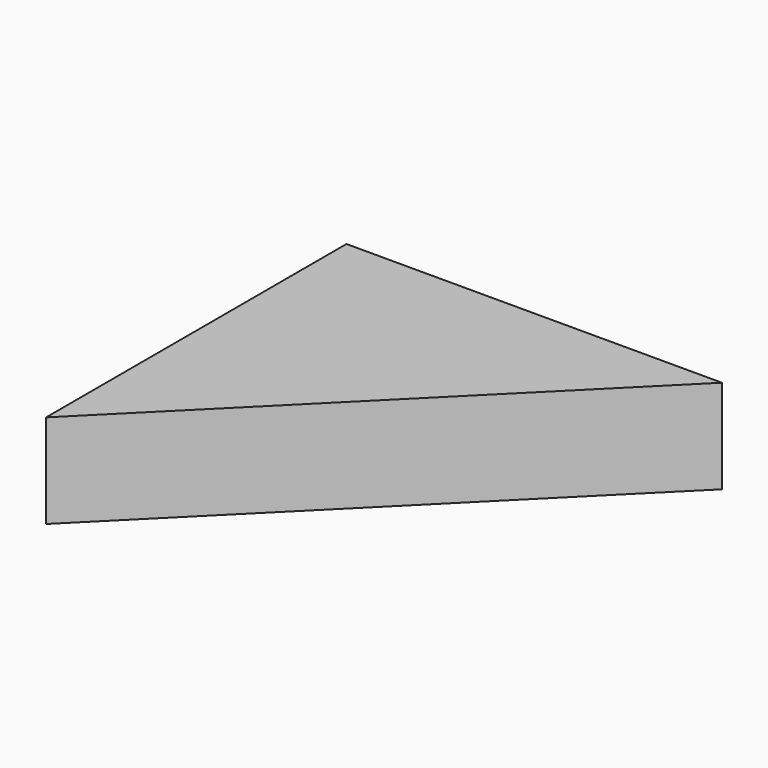
from build123d import *

# Parameters (mm, degrees)
PAD_DEPTH = 0.015


with BuildPart() as part:
    # Sketch → Pad (new body, symmetric)
    with BuildSketch(Plane.XY):
        Polygon((-0.04, 0.04), (-0.04, -0.08), (0.08, 0.04), align=None)
    extrude(amount=PAD_DEPTH, both=True)


solid = part.part
